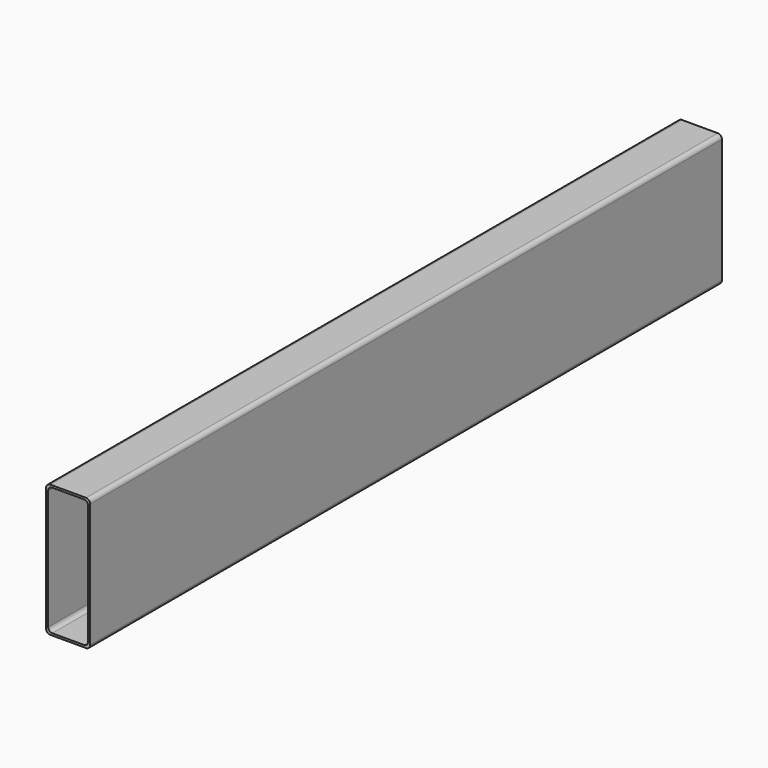
from build123d import *

# Parameters (mm, degrees)
F0_W     = 101.6
F0_H     = 304.8
F0_W_2   = 92.075
F0_H_2   = 295.275
F1_DEPTH = 1819.275
F2_R     = 9.525


with BuildPart() as f1:
    # F0 (on Front) → F1 (new body)
    with BuildSketch(Plane.XZ):
        Rectangle(F0_W, F0_H)
        Rectangle(F0_W_2, F0_H_2, mode=Mode.SUBTRACT)
    extrude(amount=F1_DEPTH)

    # F2
    f2_edges = [f1.edges().sort_by_distance(p)[0] for p in [
        (50.8, -909.6375, 152.4),
        (-50.8, -909.6375, 152.4),
        (50.8, -909.6375, -152.4),
        (-46.0375, -909.6375, -147.6375),
        (-50.8, -909.6375, -152.4),
        (46.0375, -909.6375, 147.6375),
        (-46.0375, -909.6375, 147.6375),
        (46.0375, -909.6375, -147.6375),
    ]]
    fillet(f2_edges, radius=F2_R)


solid = f1.part
